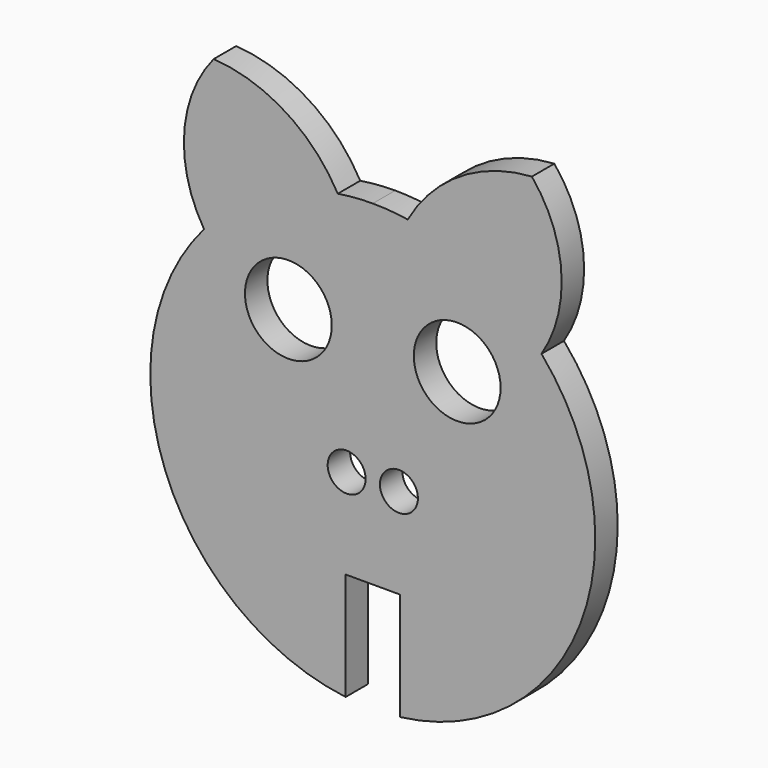
from build123d import *

# Parameters (mm, degrees)
F0_R     = 2.027586
F0_R_2   = 4.639271
F1_DEPTH = 3


with BuildPart() as f1:
    # F0 (on Front) → F1 (new body)
    with BuildSketch(Plane.XZ):
        with BuildLine():
            Line((2.9, -12.07381), (2.9, -23.602242))
            ThreePointArc((2.9, -23.602242), (22.176141, -8.584555), (18.035921, 15.497786))
            ThreePointArc((18.035921, 15.497786), (20.162837, 23.835091), (17.006388, 31.839545))
            ThreePointArc((17.006388, 31.839545), (9.308731, 29.352358), (3.741174, 23.483599))
            ThreePointArc((3.741174, 23.483599), (1.876438, 23.705586), (0, 23.779735))
            Line((0, 23.779735), (0, -12.07381))
            Line((0, -12.07381), (2.9, -12.07381))
        make_face()
        with Locations((2.793916, -2.402497)):
            Circle(F0_R, mode=Mode.SUBTRACT)
        with Locations((9.022897, 10.875068)):
            Circle(F0_R_2, mode=Mode.SUBTRACT)
        with BuildLine():
            Line((-2.9, -12.07381), (0, -12.07381))
            Line((0, -12.07381), (0, 23.779735))
            ThreePointArc((0, 23.779735), (-1.876438, 23.705586), (-3.741174, 23.483599))
            ThreePointArc((-3.741174, 23.483599), (-9.308731, 29.352358), (-17.006388, 31.839545))
            ThreePointArc((-17.006388, 31.839545), (-20.162837, 23.835091), (-18.035921, 15.497786))
            ThreePointArc((-18.035921, 15.497786), (-22.176141, -8.584555), (-2.9, -23.602242))
            Line((-2.9, -23.602242), (-2.9, -12.07381))
        make_face()
        with Locations((-2.793916, -2.402497)):
            Circle(F0_R, mode=Mode.SUBTRACT)
        with Locations((-9.022897, 10.875068)):
            Circle(F0_R_2, mode=Mode.SUBTRACT)
    extrude(amount=F1_DEPTH)


solid = f1.part
